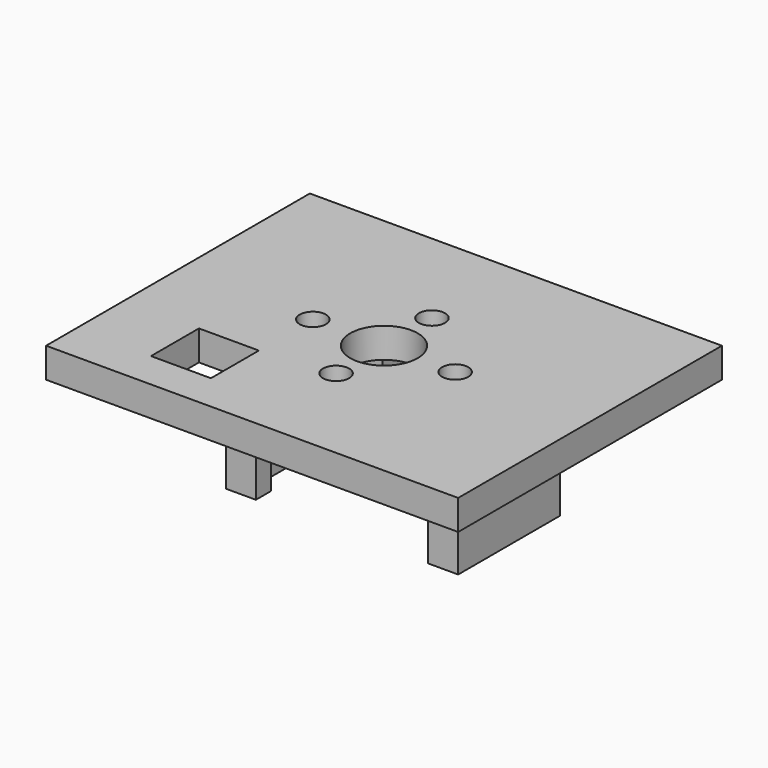
from build123d import *

# Parameters (mm, degrees)
SKETCH_W     = 55
SKETCH_H     = 44
SKETCH_R     = 1.75
SKETCH_R_2   = 4.5
SKETCH_W_2   = 8
SKETCH_H_2   = 8
PAD_DEPTH    = 4
PAD001_DEPTH = 15


with BuildPart() as part:
    # Sketch → Pad (new body)
    with BuildSketch(Plane.XY):
        Rectangle(SKETCH_W, SKETCH_H)
        with Locations((-9.5, 0)):
            Circle(SKETCH_R, mode=Mode.SUBTRACT)
        with Locations((0, 8)):
            Circle(SKETCH_R, mode=Mode.SUBTRACT)
        with Locations((9.5, 0)):
            Circle(SKETCH_R, mode=Mode.SUBTRACT)
        with Locations((0, -8)):
            Circle(SKETCH_R, mode=Mode.SUBTRACT)
        Circle(SKETCH_R_2, mode=Mode.SUBTRACT)
        with Locations((-13.5, -13)):
            Rectangle(SKETCH_W_2, SKETCH_H_2, mode=Mode.SUBTRACT)
    extrude(amount=PAD_DEPTH)

    # Sketch001 (on Face14 of Pad) → Pad001 (join)
    with BuildSketch(Plane(origin=(0, 0, 0), x_dir=(1, 0, 0), z_dir=(0, 0, -1))):
        Polygon((-15.5, 7), (-11.5, 7), (-11.5, 4.5), (-13.5, 2.5), (-13.5, -2), (-11.5, -4), (-11.5, -6), (-5, -6), (-5, -10), (-15.5, -10), align=None)
        Polygon((11.5, 7), (15.5, 7), (15.5, -10), (5, -10), (5, -6), (11.5, -6), (11.5, -4), (13.5, -2), (13.5, 2.5), (11.5, 4.5), align=None)
    extrude(amount=PAD001_DEPTH)


solid = part.part
